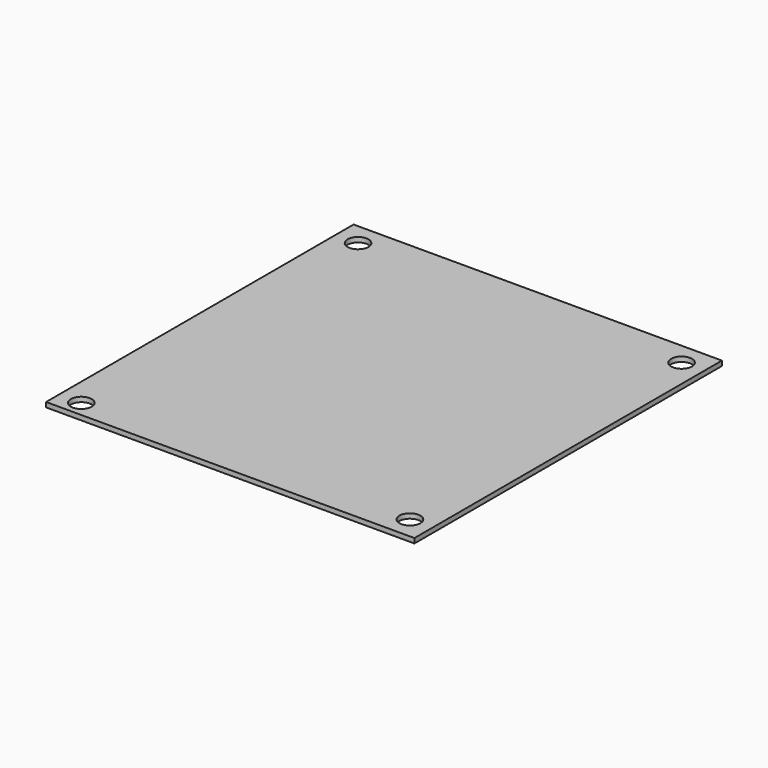
from build123d import *

# Parameters (mm, degrees)
F0_W     = 115
F0_H     = 120
F0_R     = 3.25
F1_DEPTH = 1.5


with BuildPart() as f1:
    # F0 (on Top) → F1 (new body)
    with BuildSketch(Plane.XY):
        with Locations((5, 5)):
            Rectangle(F0_W, F0_H)
        with Locations((-45.5, -50)):
            Circle(F0_R, mode=Mode.SUBTRACT)
        with Locations((55.5, -48)):
            Circle(F0_R, mode=Mode.SUBTRACT)
        with Locations((-45.5, 58)):
            Circle(F0_R, mode=Mode.SUBTRACT)
        with Locations((55.5, 58)):
            Circle(F0_R, mode=Mode.SUBTRACT)
    extrude(amount=-F1_DEPTH)


solid = f1.part
